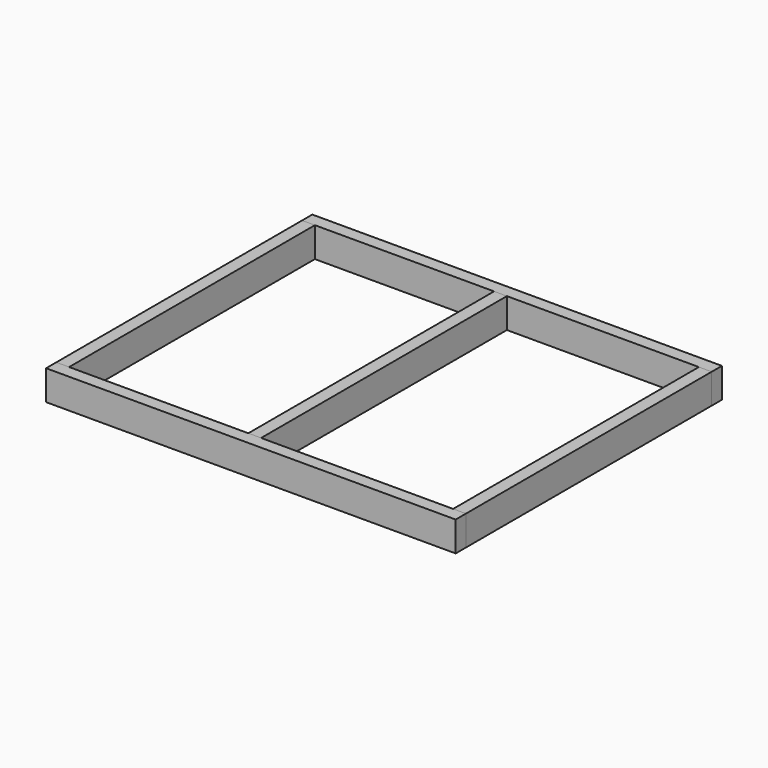
from build123d import *

# Parameters (mm, degrees)
F0_W     = 1219.2
F0_H     = 88.9
F1_DEPTH = 38.1
F2_W     = 38.1
F2_H     = 914.4
F3_DEPTH = 88.9
F4_W     = 1219.2
F4_H     = 38.1
F5_DEPTH = 88.9


with BuildPart() as f1:
    # F0 (on Front) → F1 (new body)
    with BuildSketch(Plane.XZ):
        with Locations((-19.442329, 44.45)):
            Rectangle(F0_W, F0_H)
    extrude(amount=-F1_DEPTH)


with BuildPart() as f3:
    # F2 (on Top) → F3 (new body)
    with BuildSketch(Plane.XY):
        with Locations((-609.992329, 495.3)):
            Rectangle(F2_W, F2_H)
        with Locations((571.107671, 495.3)):
            Rectangle(F2_W, F2_H)
        with Locations((-38.492329, 495.3)):
            Rectangle(F2_W, F2_H)
    extrude(amount=F3_DEPTH)


with BuildPart() as f5:
    # F4 (on Top) → F5 (new body)
    with BuildSketch(Plane.XY):
        with Locations((-19.442329, 971.55)):
            Rectangle(F4_W, F4_H)
    extrude(amount=F5_DEPTH)


solid = Compound([f1.part, f3.part, f5.part])
